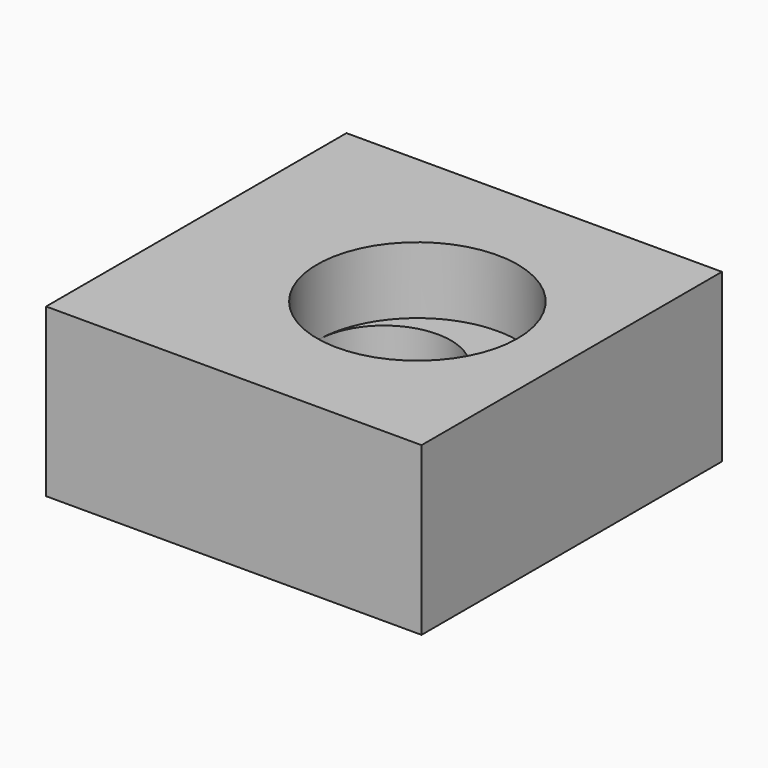
from build123d import *

# Parameters (mm, degrees)
F0_W     = 112.393752
F0_H     = 112.393752
F1_DEPTH = 50
F2_R     = 20
F3_DEPTH = 30
F2_R_2   = 30
F4_DEPTH = 20


with BuildPart() as f1:
    # F0 (on Top) → F1 (new body)
    with BuildSketch(Plane.XY):
        Rectangle(F0_W, F0_H)
    extrude(amount=F1_DEPTH)

    # F2 (on face) → F3 (cut)
    with BuildSketch(Plane.XY.offset(50)):
        Circle(F2_R)
    extrude(amount=-F3_DEPTH, mode=Mode.SUBTRACT)

    # F2 (on face) → F4 (cut)
    with BuildSketch(Plane.XY.offset(50)):
        with Locations((9.99, 0)):
            Circle(F2_R_2)
        Circle(F2_R, mode=Mode.SUBTRACT)
    extrude(amount=-F4_DEPTH, mode=Mode.SUBTRACT)


solid = f1.part
